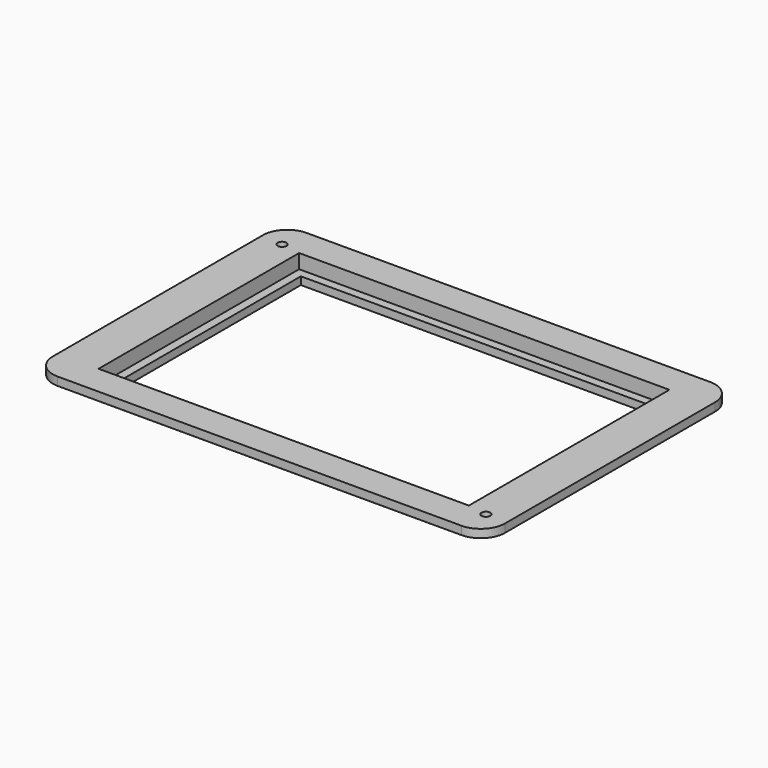
from build123d import *

# Parameters (mm, degrees)
F0_R     = 1.55
F1_DEPTH = 2.91
F3_DEPTH = 4.8
F4_W     = 130
F4_H     = 88
F4_W_2   = 124
F4_H_2   = 82
F5_DEPTH = 5
F6_DEPTH = 25


with BuildPart() as f1:
    # F0 (on Top) → F1 (new body)
    with BuildSketch(Plane.XY):
        with BuildLine():
            Line((-70.875, -54.61), (70.875, -54.61))
            ThreePointArc((70.875, -54.61), (76.885408, -52.120408), (79.375, -46.11))
            Line((79.375, -46.11), (79.375, 46.11))
            ThreePointArc((79.375, 46.11), (76.885408, 52.120408), (70.875, 54.61))
            Line((70.875, 54.61), (-70.875, 54.61))
            ThreePointArc((-70.875, 54.61), (-76.885408, 52.120408), (-79.375, 46.11))
            Line((-79.375, 46.11), (-79.375, -46.11))
            ThreePointArc((-79.375, -46.11), (-76.885408, -52.120408), (-70.875, -54.61))
        make_face()
        with Locations((71.875, -45.11)):
            Circle(F0_R, mode=Mode.SUBTRACT)
        with Locations((-71.875, 45.11)):
            Circle(F0_R, mode=Mode.SUBTRACT)
    extrude(amount=F1_DEPTH)

    # F2 (on Top) → F3 (join)
    with BuildSketch(Plane.XY):
        Polygon((-62.5, -47.425), (62.5, -47.425), (67.5, -42.425), (67.5, 42.425), (62.5, 47.425), (-62.5, 47.425), (-67.5, 42.425), (-67.5, -42.425), align=None)
    extrude(amount=-F3_DEPTH)

    # F4 (on face) → F5 (cut)
    with BuildSketch(Plane.XY.offset(2.91)):
        Rectangle(F4_W, F4_H)
        Rectangle(F4_W_2, F4_H_2, mode=Mode.SUBTRACT)
        Rectangle(F4_W_2, F4_H_2)
    extrude(amount=-F5_DEPTH, mode=Mode.SUBTRACT)

    # F4 (on face) → F6 (cut)
    with BuildSketch(Plane.XY.offset(2.91)):
        Rectangle(F4_W_2, F4_H_2)
    extrude(amount=-F6_DEPTH, mode=Mode.SUBTRACT)


solid = f1.part
